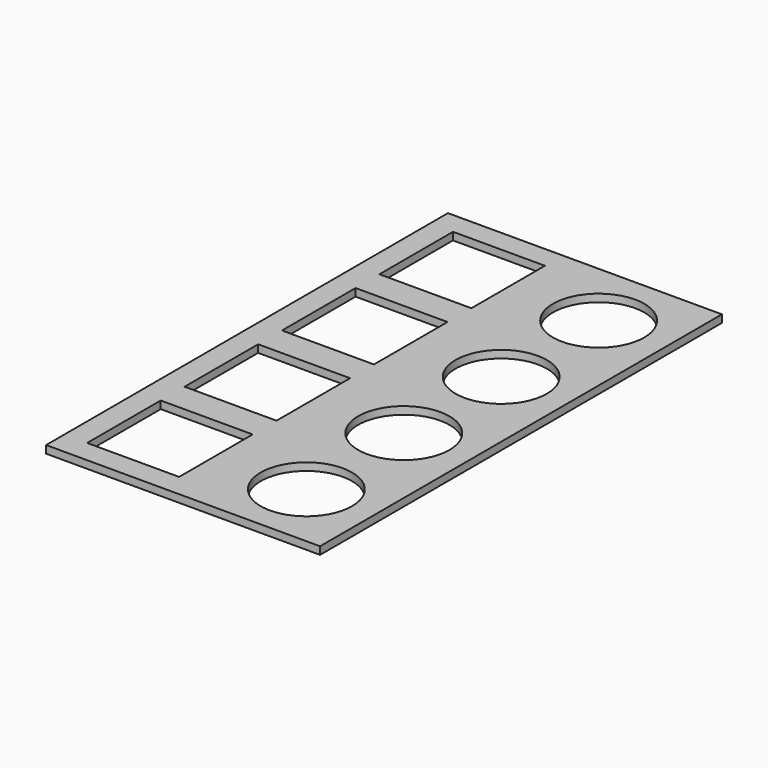
from build123d import *

# Parameters (mm, degrees)
F0_W     = 228.6
F0_H     = 419.1
F1_DEPTH = 6.35
F2_W     = 76.708
F2_H     = 76.708
F3_DEPTH = 25.4
F4_R     = 38.1
F5_DEPTH = 25.4


with BuildPart() as f1:
    # F0 (on Top) → F1 (new body)
    with BuildSketch(Plane.XY):
        with Locations((16.350647, 15.597903)):
            Rectangle(F0_W, F0_H)
    extrude(amount=F1_DEPTH)

    # F2 (on face) → F3 (cut)
    with BuildSketch(Plane(origin=(0, 0, 0), x_dir=(1, 0, 0), z_dir=(0, 0, -1))):
        with Locations((-40.545353, 136.548097)):
            Rectangle(F2_W, F2_H)
        with Locations((-40.545353, 34.948097)):
            Rectangle(F2_W, F2_H)
        with Locations((-40.545353, -66.651903)):
            Rectangle(F2_W, F2_H)
        with Locations((-40.545353, -168.251903)):
            Rectangle(F2_W, F2_H)
    extrude(amount=-F3_DEPTH, mode=Mode.SUBTRACT)

    # F4 (on face) → F5 (cut)
    with BuildSketch(Plane(origin=(0, 0, 0), x_dir=(1, 0, 0), z_dir=(0, 0, -1))):
        with Locations((73.500647, 136.802097)):
            Circle(F4_R)
        with Locations((73.500647, 35.202097)):
            Circle(F4_R)
        with Locations((73.500647, -66.397903)):
            Circle(F4_R)
        with Locations((73.500647, -167.997903)):
            Circle(F4_R)
    extrude(amount=-F5_DEPTH, mode=Mode.SUBTRACT)


solid = f1.part
